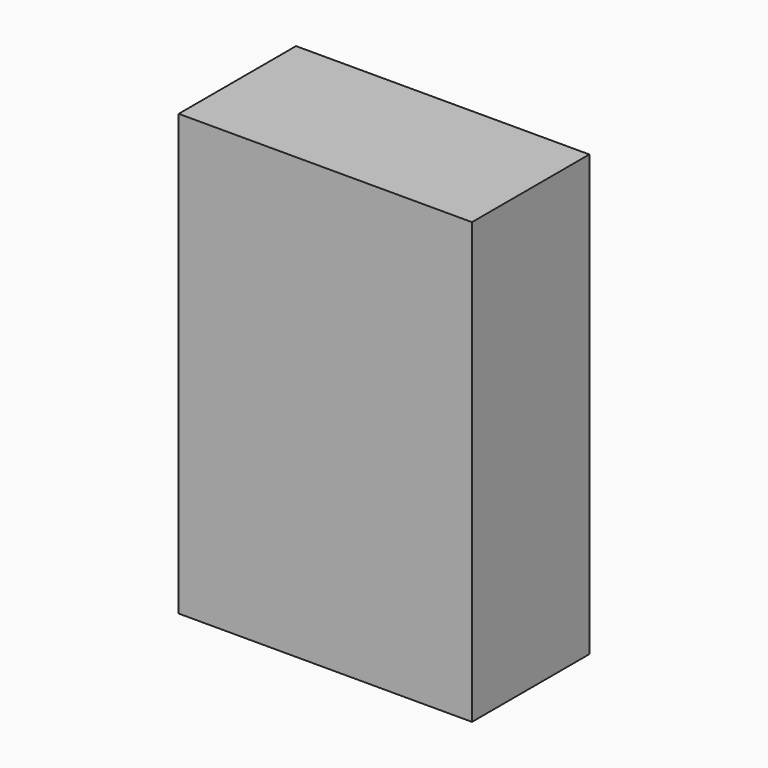
from build123d import *

# Parameters (mm, degrees)
F0_W     = 50.8
F0_H     = 76.2
F1_DEPTH = 25.4
F2_DEPTH = 25.4


with BuildPart() as f1:
    # F0 (on Front) → F1 (new body)
    with BuildSketch(Plane.XZ):
        Rectangle(F0_W, F0_H)
    extrude(amount=F1_DEPTH)


with BuildPart() as f2:
    # F0 (on Front) → F2 (new body)
    with BuildSketch(Plane.XZ):
        Rectangle(F0_W, F0_H)
    extrude(amount=F2_DEPTH)


solid = Compound([f1.part, f2.part])
